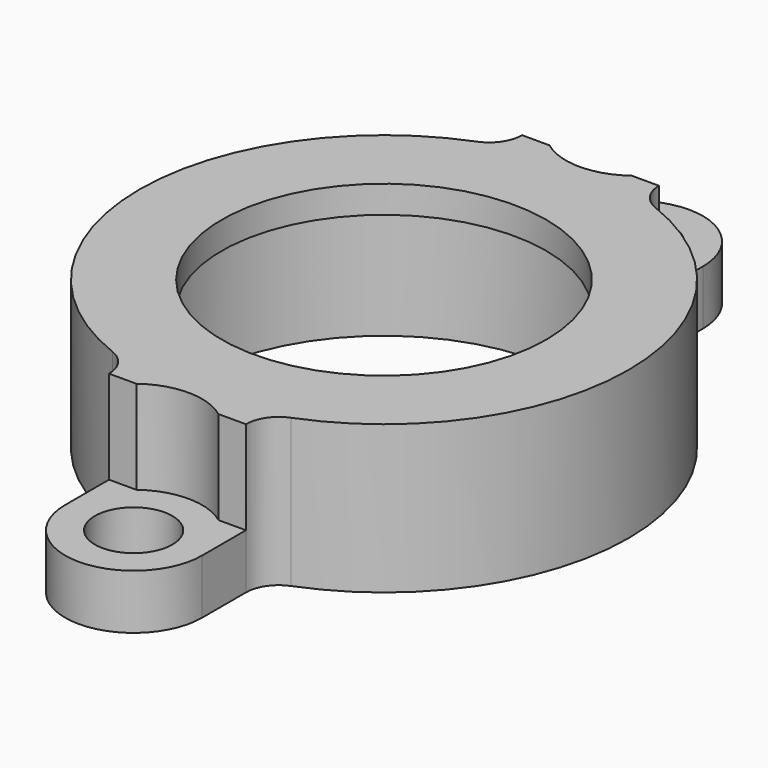
from build123d import *

# Parameters (mm, degrees)
F0_R     = 2.2479
F0_R_2   = 11
F1_DEPTH = 3.175
F2_R     = 11
F3_DEPTH = 3.8250114
F4_R     = 11
F4_R_2   = 9.4125034
F5_DEPTH = 1.5875
F7_DEPTH = 8.5875114


with BuildPart() as f1:
    # F0 (on Top) → F1 (new body)
    with BuildSketch(Plane.XY):
        with BuildLine():
            Line((3.96875, -18.14374959), (3.96875, -13.6080724871))
            ThreePointArc((3.96875, -13.6080724871), (14.17499959, 0), (3.96875, 13.6080724871))
            Line((3.96875, 13.6080724871), (3.96875, 18.14374959))
            ThreePointArc((3.96875, 18.14374959), (0, 22.11249959), (-3.96875, 18.14374959))
            Line((-3.96875, 18.14374959), (-3.96875, 13.6080724871))
            ThreePointArc((-3.96875, 13.6080724871), (-14.17499959, 0), (-3.96875, -13.6080724871))
            Line((-3.96875, -13.6080724871), (-3.96875, -18.14374959))
            ThreePointArc((-3.96875, -18.14374959), (0, -22.11249959), (3.96875, -18.14374959))
        make_face()
        with Locations((0, -18.14374959)):
            Circle(F0_R, mode=Mode.SUBTRACT)
        Circle(F0_R_2, mode=Mode.SUBTRACT)
        with Locations((0, 18.14374959)):
            Circle(F0_R, mode=Mode.SUBTRACT)
    extrude(amount=F1_DEPTH)

    # F2 (on face) → F3 (join)
    with BuildSketch(Plane.XY.offset(3.175)):
        with BuildLine():
            ThreePointArc((2.38125, 14.96874959), (0, 14.17499959), (-2.38125, 14.96874959))
            Line((-2.38125, 14.96874959), (-3.96875, 14.96874959))
            Line((-3.96875, 14.96874959), (-3.96875, 13.6080724871))
            ThreePointArc((-3.96875, 13.6080724871), (-14.17499959, 0), (-3.96875, -13.6080724871))
            Line((-3.96875, -13.6080724871), (-3.96875, -14.96874959))
            Line((-3.96875, -14.96874959), (-2.38125, -14.96874959))
            ThreePointArc((-2.38125, -14.96874959), (0, -14.17499959), (2.38125, -14.96874959))
            Line((2.38125, -14.96874959), (3.96875, -14.96874959))
            Line((3.96875, -14.96874959), (3.96875, -13.6080724871))
            ThreePointArc((3.96875, -13.6080724871), (14.17499959, 0), (3.96875, 13.6080724871))
            Line((3.96875, 13.6080724871), (3.96875, 14.96874959))
            Line((3.96875, 14.96874959), (2.38125, 14.96874959))
        make_face()
        Circle(F2_R, mode=Mode.SUBTRACT)
    extrude(amount=F3_DEPTH)

    # F4 (on face) → F5 (join)
    with BuildSketch(Plane.XY.offset(7.0000114)):
        with BuildLine():
            ThreePointArc((3.96875, -13.6080724871), (14.17499959, 0), (3.96875, 13.6080724871))
            Line((3.96875, 13.6080724871), (3.96875, 14.96874959))
            Line((3.96875, 14.96874959), (2.38125, 14.96874959))
            ThreePointArc((2.38125, 14.96874959), (0, 14.17499959), (-2.38125, 14.96874959))
            Line((-2.38125, 14.96874959), (-3.96875, 14.96874959))
            Line((-3.96875, 14.96874959), (-3.96875, 13.6080724871))
            ThreePointArc((-3.96875, 13.6080724871), (-14.17499959, 0), (-3.96875, -13.6080724871))
            Line((-3.96875, -13.6080724871), (-3.96875, -14.96874959))
            Line((-3.96875, -14.96874959), (-2.38125, -14.96874959))
            ThreePointArc((-2.38125, -14.96874959), (0, -14.17499959), (2.38125, -14.96874959))
            Line((2.38125, -14.96874959), (3.96875, -14.96874959))
            Line((3.96875, -14.96874959), (3.96875, -13.6080724871))
        make_face()
        Circle(F4_R, mode=Mode.SUBTRACT)
        Circle(F4_R)
        Circle(F4_R_2, mode=Mode.SUBTRACT)
    extrude(amount=F5_DEPTH)

    # F6 (on face) → F7 (join, through all)
    with BuildSketch(Plane.XY.offset(8.5875114)):
        with BuildLine():
            ThreePointArc((-3.96875, 14.96874959), (-4.2997839234, 13.8956272964), (-5.1778315745, 13.1954792851))
            ThreePointArc((-5.1778315745, 13.1954792851), (-4.57794134, 13.4154040738), (-3.96875, 13.6080724871))
            Line((-3.96875, 13.6080724871), (-3.96875, 14.96874959))
        make_face()
        with BuildLine():
            ThreePointArc((5.1778315745, 13.1954792851), (4.2997839234, 13.8956272964), (3.96875, 14.96874959))
            Line((3.96875, 14.96874959), (3.96875, 13.6080724871))
            ThreePointArc((3.96875, 13.6080724871), (4.57794134, 13.4154040738), (5.1778315745, 13.1954792851))
        make_face()
        with BuildLine():
            ThreePointArc((-5.1778315745, -13.1954792851), (-4.2997839234, -13.8956272964), (-3.96875, -14.96874959))
            Line((-3.96875, -14.96874959), (-3.96875, -13.6080724871))
            ThreePointArc((-3.96875, -13.6080724871), (-4.57794134, -13.4154040738), (-5.1778315745, -13.1954792851))
        make_face()
        with BuildLine():
            ThreePointArc((3.96875, -14.96874959), (4.2997839234, -13.8956272964), (5.1778315745, -13.1954792851))
            ThreePointArc((5.1778315745, -13.1954792851), (4.57794134, -13.4154040738), (3.96875, -13.6080724871))
            Line((3.96875, -13.6080724871), (3.96875, -14.96874959))
        make_face()
    extrude(amount=-F7_DEPTH)


solid = f1.part
